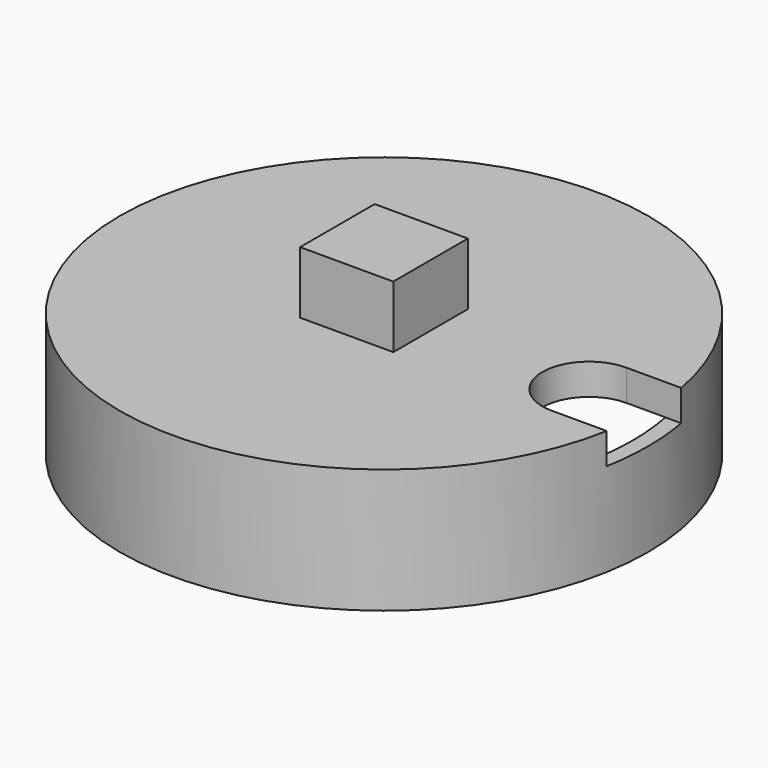
from build123d import *

# Parameters (mm, degrees)
F0_R     = 53.975
F1_DEPTH = 25.4
F2_R     = 50.8
F3_DEPTH = 19.05
F4_W     = 19.05
F4_H     = 19.05
F5_DEPTH = 12.7
F6_R     = 9.525
F7_DEPTH = 6.35
F8_W     = 17.119241
F8_H     = 19.05
F9_DEPTH = 6.35


with BuildPart() as f1:
    # F0 (on Top) → F1 (new body)
    with BuildSketch(Plane.XY):
        Circle(F0_R)
    extrude(amount=F1_DEPTH)

    # F2 (on face) → F3 (cut)
    with BuildSketch(Plane(origin=(0, 0, 0), x_dir=(1, 0, 0), z_dir=(0, 0, -1))):
        Circle(F2_R)
    extrude(amount=-F3_DEPTH, mode=Mode.SUBTRACT)

    # F4 (on face) → F5 (join)
    with BuildSketch(Plane.XY.offset(25.4)):
        Rectangle(F4_W, F4_H)
    extrude(amount=F5_DEPTH)

    # F6 (on face) → F7 (cut, through all)
    with BuildSketch(Plane.XY.offset(25.4)):
        with Locations((41.91, 0)):
            Circle(F6_R)
    extrude(amount=-F7_DEPTH, mode=Mode.SUBTRACT)

    # F8 (on face) → F9 (cut, through all)
    with BuildSketch(Plane.XY.offset(25.4)):
        with Locations((50.46962, 0)):
            Rectangle(F8_W, F8_H)
    extrude(amount=-F9_DEPTH, mode=Mode.SUBTRACT)


solid = f1.part
